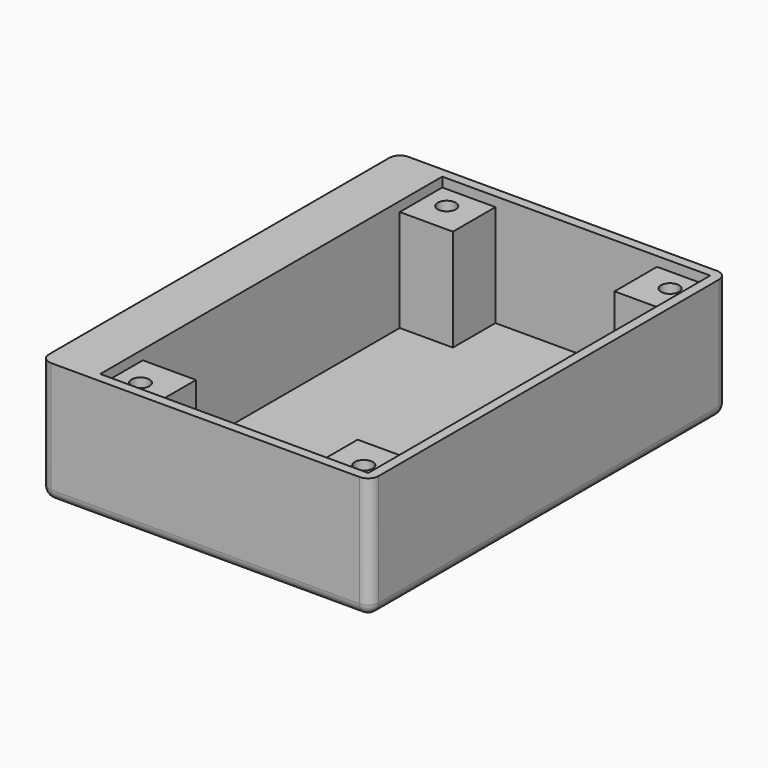
from build123d import *

# Parameters (mm, degrees)
SKETCH024_W     = 62
SKETCH024_H     = 84
PAD007_DEPTH    = 23
SKETCH025_W     = 50.4
SKETCH025_H     = 80.4
POCKET015_DEPTH = 21
SKETCH026_W     = 10
SKETCH026_H     = 10
PAD008_DEPTH    = 19.2
SKETCH027_R     = 1.7
POCKET016_DEPTH = 21.2
POCKET017_DEPTH = 18.4
FILLET004_R     = 2


with BuildPart() as part:
    # Sketch024 → Pad007 (new body)
    with BuildSketch(Plane.XY):
        Rectangle(SKETCH024_W, SKETCH024_H)
    extrude(amount=PAD007_DEPTH)

    # Sketch025 (on Face6 of Pad007) → Pocket015 (cut)
    with BuildSketch(Plane.XY.offset(23)):
        with Locations((4, 0)):
            Rectangle(SKETCH025_W, SKETCH025_H)
    extrude(amount=-POCKET015_DEPTH, mode=Mode.SUBTRACT)

    # Sketch026 (on Face11 of Pocket015) → Pad008 (join)
    with BuildSketch(Plane.XY.offset(2)):
        with Locations((-16.2, 35.2)):
            Rectangle(SKETCH026_W, SKETCH026_H)
        with Locations((24.2, 35.2)):
            Rectangle(SKETCH026_W, SKETCH026_H)
        with Locations((24.2, -35.2)):
            Rectangle(SKETCH026_W, SKETCH026_H)
        with Locations((-16.2, -35.2)):
            Rectangle(SKETCH026_W, SKETCH026_H)
    extrude(amount=PAD008_DEPTH)

    # Sketch027 (on Face19 of Pad008) → Pocket016 (cut)
    with BuildSketch(Plane.XY.offset(21.2)):
        with Locations((25, 36)):
            Circle(SKETCH027_R)
        with Locations((-17, 36)):
            Circle(SKETCH027_R)
        with Locations((25, -36)):
            Circle(SKETCH027_R)
        with Locations((-17, -36)):
            Circle(SKETCH027_R)
    extrude(amount=-POCKET016_DEPTH, mode=Mode.SUBTRACT)

    # Sketch028 (on Face4 of Pocket016) → Pocket017 (cut)
    with BuildSketch(Plane(origin=(0, 0, 0), x_dir=(1, 0, 0), z_dir=(0, 0, -1))):
        Polygon((-15.412287, 33.25), (-13.824574, 36), (-15.412287, 38.75), (-18.587713, 38.75), (-20.175426, 36), (-18.587713, 33.25), align=None)
        Polygon((23.412287, 33.25), (26.587713, 33.25), (28.175426, 36), (26.587713, 38.75), (23.412287, 38.75), (21.824574, 36), align=None)
        Polygon((-15.412287, -33.25), (-18.587713, -33.25), (-20.175426, -36), (-18.587713, -38.75), (-15.412287, -38.75), (-13.824574, -36), align=None)
        Polygon((26.587713, -33.25), (23.412287, -33.25), (21.824574, -36), (23.412287, -38.75), (26.587713, -38.75), (28.175426, -36), align=None)
    extrude(amount=-POCKET017_DEPTH, mode=Mode.SUBTRACT)

    # Fillet004
    fillet004_edges = [part.edges().sort_by_distance(p)[0] for p in [
        (-31, -42, 11.5),
        (31, -42, 11.5),
        (31, 42, 11.5),
        (31, 0, 0),
        (0, -42, 0),
        (0, 42, 0),
        (-31, 42, 11.5),
        (-31, 0, 0),
    ]]
    fillet(fillet004_edges, radius=FILLET004_R)


solid = part.part
